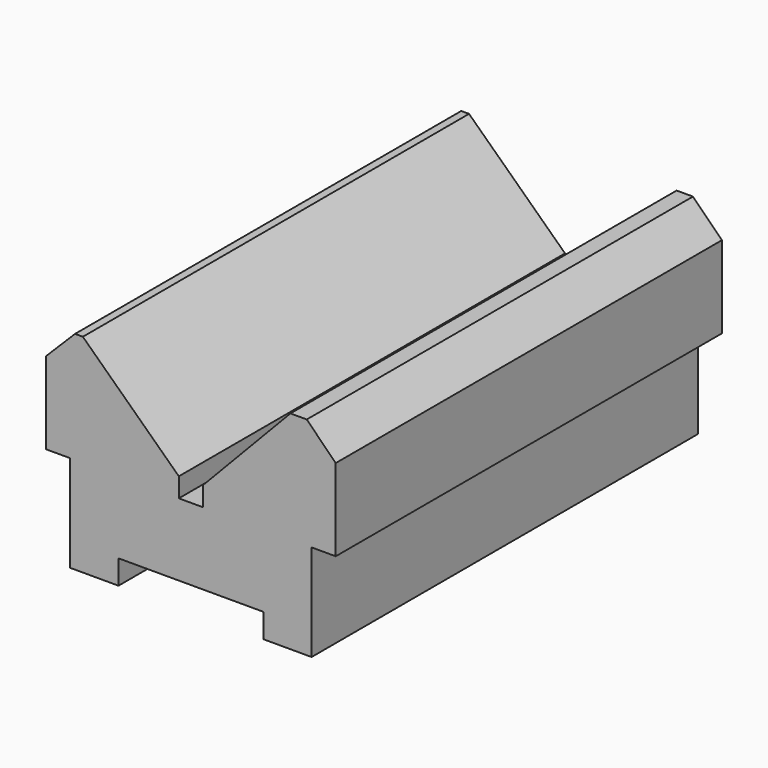
from build123d import *

# Parameters (mm, degrees)
F1_DEPTH = 100


with BuildPart() as f1:
    # F0 (on Front) → F1 (new body)
    with BuildSketch(Plane.XZ):
        Polygon((-24.100423, 20), (-24.100423, 0), (-14.100423, 0), (-14.100423, 5), (15.899577, 5), (15.899577, 0), (25.899577, 0), (25.899577, 20), (30.899577, 20), (30.899577, 37), (24.899577, 43), (21.517872, 43), (3.399577, 24.020469), (3.399577, 20), (-1.600423, 20), (-1.600423, 24.020469), (-21.482128, 43), (-23.100423, 43), (-29.100423, 37), (-29.100423, 20), align=None)
    extrude(amount=-F1_DEPTH)


solid = f1.part
